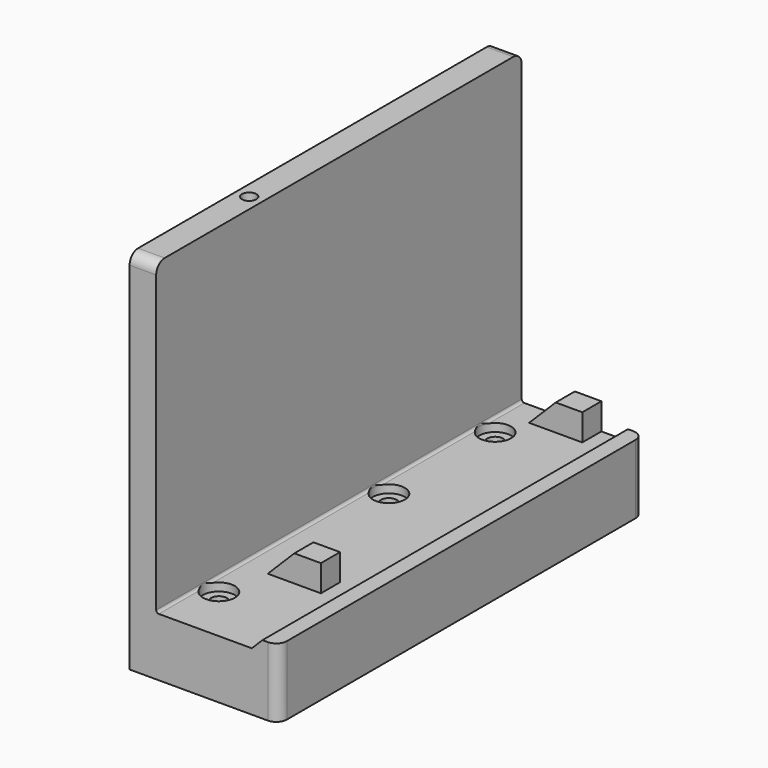
from build123d import *

# Parameters (mm, degrees)
F1_DEPTH  = 43
F2_R      = 4
F3_DEPTH  = 6
F4_R      = 1.5
F5_DEPTH  = 25
F4_R_2    = 3
F6_DEPTH  = 1.5
F7_W      = 10
F7_H      = 4.5
F8_DEPTH  = 5
F10_DEPTH = 50
F11_R     = 2
F13_R     = 1.35
F14_DEPTH = 12


with BuildPart() as f1:
    # F0 (on Front) → F1 (new body, symmetric)
    with BuildSketch(Plane.XZ):
        with BuildLine():
            Line((0, 11.5), (0, 69))
            Line((0, 69), (-5, 69))
            Line((-5, 69), (-5, 0))
            Line((-5, 0), (23, 0))
            Line((23, 0), (23, 13))
            Line((23, 13), (20, 13))
            Line((20, 13), (18, 11))
            Line((18, 11), (0.5, 11))
            ThreePointArc((0.5, 11), (0.146447, 11.146447), (0, 11.5))
        make_face()
    extrude(amount=F1_DEPTH, both=True)

    # F2 (on face) → F3 (cut)
    with BuildSketch(Plane(origin=(0, 0, 0), x_dir=(1, 0, 0), z_dir=(0, 0, -1))):
        with Locations((3, -33)):
            Circle(F2_R)
        with Locations((3, -8)):
            Circle(F2_R)
        with Locations((3, 32)):
            Circle(F2_R)
    extrude(amount=-F3_DEPTH, mode=Mode.SUBTRACT)

    # F4 (on face) → F5 (cut)
    with BuildSketch(Plane.XY.offset(11)):
        with Locations((3, 33)):
            Circle(F4_R)
        with Locations((3, 8)):
            Circle(F4_R)
        with Locations((3, -32)):
            Circle(F4_R)
    extrude(amount=-F5_DEPTH, mode=Mode.SUBTRACT)

    # F4 (on face) → F6 (cut, symmetric)
    with BuildSketch(Plane.XY.offset(11)):
        with Locations((3, 8)):
            Circle(F4_R_2)
        with Locations((3, 8)):
            Circle(F4_R, mode=Mode.SUBTRACT)
        with Locations((3, 33)):
            Circle(F4_R_2)
        with Locations((3, 33)):
            Circle(F4_R, mode=Mode.SUBTRACT)
        with Locations((3, -32)):
            Circle(F4_R_2)
        with Locations((3, -32)):
            Circle(F4_R, mode=Mode.SUBTRACT)
    extrude(amount=F6_DEPTH, both=True, mode=Mode.SUBTRACT)

    # F7 (on face) → F8 (join)
    with BuildSketch(Plane.XY.offset(11)):
        with Locations((10, 40.75)):
            Rectangle(F7_W, F7_H)
        with Locations((10, -20.75)):
            Rectangle(F7_W, F7_H)
    extrude(amount=F8_DEPTH)

    # F9 (on Front) → F10 (cut, symmetric)
    with BuildSketch(Plane.XZ):
        Polygon((5, 19), (5, 11), (13, 19), align=None)
    extrude(amount=F10_DEPTH, both=True, mode=Mode.SUBTRACT)

    # F11
    f11_edges = [f1.edges().sort_by_distance(p)[0] for p in [
        (23, -43, 6.5),
        (23, 43, 6.5),
        (-2.5, -43, 69),
        (-2.5, 43, 69),
    ]]
    fillet(f11_edges, radius=F11_R)

    # F13 (on face) → F14 (cut)
    with BuildSketch(Plane.XY.offset(69)):
        with Locations((-2.5, -18)):
            Circle(F13_R)
    extrude(amount=-F14_DEPTH, mode=Mode.SUBTRACT)


solid = f1.part
